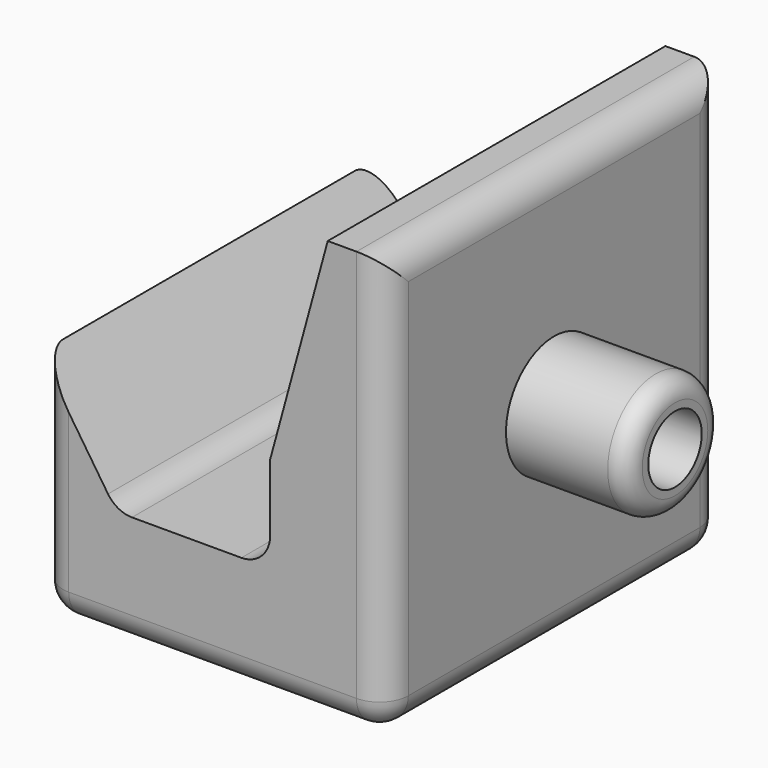
from build123d import *

# Parameters (mm, degrees)
F1_DEPTH      = 11
F1_DEPTH_BACK = 11
F2_R          = 3.135192
F2_R_2        = 1.742831
F3_DEPTH      = 6.3
F4_R          = 1.5
F5_R          = 1
F3_FACE_R     = 1.742831
F6_DEPTH      = 1.5


with BuildPart() as f1:
    # F0 (on Front) → F1 (new body, two sides)
    with BuildSketch(Plane.XZ) as f1_sk:
        Polygon((-3, -11), (3, -11), (3, -3.201166), (3, 0), (3, 3.152842), (3, 11), (0, 11), (-3, 0), (-3, -5), (-11.005839, -5), (-15, 1), (-15, -5), (-15, -11), align=None)
    extrude(amount=F1_DEPTH)
    extrude(f1_sk.sketch, amount=-F1_DEPTH_BACK)

    # F2 (on face) → F3 (join)
    with BuildSketch(Plane.YZ.offset(3)):
        Circle(F2_R)
        Circle(F2_R_2, mode=Mode.SUBTRACT)
    extrude(amount=F3_DEPTH)

    # F4
    f4_edges = [f1.edges().sort_by_distance(p)[0] for p in [
        (3, -11, 0),
        (-6, -11, -11),
        (-15, -11, -5),
        (3, 0, 11),
        (3, 11, 0),
        (3, 0, -11),
        (-15, 11, -5),
        (-15, 0, -11),
        (-6, 11, -11),
        (-3, 0, -5),
        (-11.005839, 0, -5),
    ]]
    fillet(f4_edges, radius=F4_R)

    # F5
    f5_edges = [f1.edges().sort_by_distance(p)[0] for p in [
        (9.3, -3.135192, 0),
    ]]
    fillet(f5_edges, radius=F5_R)

    # F3_face (on face) → F6 (join)
    with BuildSketch(Plane.YZ.offset(3)):
        Circle(F3_FACE_R)
    extrude(amount=-F6_DEPTH)


solid = f1.part
